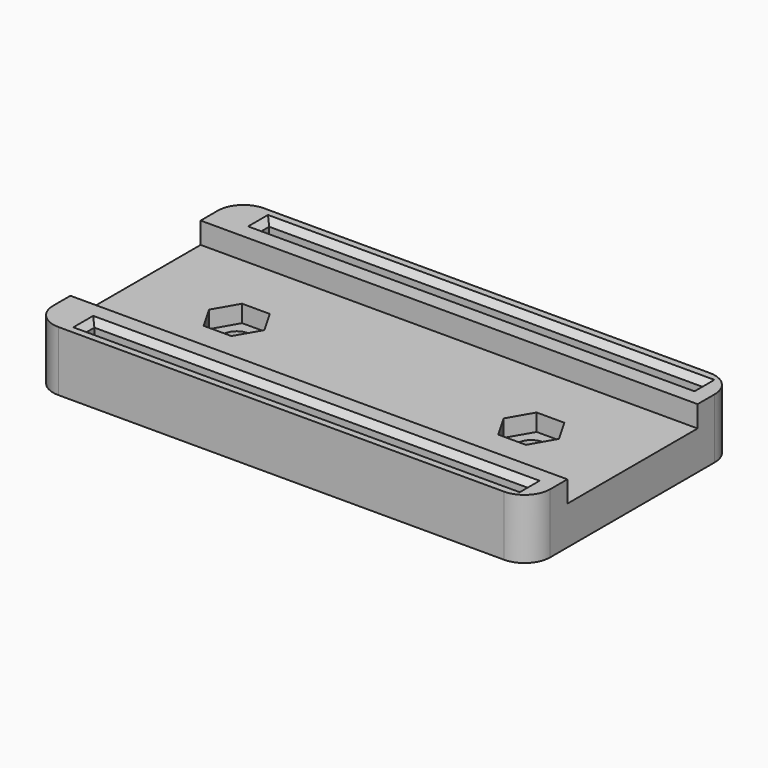
from build123d import *

# Parameters (mm, degrees)
SKETCH_W        = 58
SKETCH_H        = 30
SKETCH_R        = 1.6
SKETCH_W_2      = 50.7
SKETCH_H_2      = 1.5
PAD_DEPTH       = 7
SKETCH001_W     = 19
SKETCH001_H     = 2.5
POCKET_DEPTH    = 58
POCKET001_DEPTH = 2
FILLET_R        = 3
CHAMFER_SIZE    = 0.7


with BuildPart() as part:
    # Sketch → Pad (new body)
    with BuildSketch(Plane.XY):
        Rectangle(SKETCH_W, SKETCH_H)
        with Locations((-17.186, 0)):
            Circle(SKETCH_R, mode=Mode.SUBTRACT)
        with Locations((17.186, 0)):
            Circle(SKETCH_R, mode=Mode.SUBTRACT)
        with Locations((1.15, 12.75)):
            Rectangle(SKETCH_W_2, SKETCH_H_2, mode=Mode.SUBTRACT)
        with Locations((1.15, -12.75)):
            Rectangle(SKETCH_W_2, SKETCH_H_2, mode=Mode.SUBTRACT)
    extrude(amount=PAD_DEPTH)

    # Sketch001 (on Face4 of Pad) → Pocket (cut)
    with BuildSketch(Plane(origin=(-29, 0, 0), x_dir=(0, -1, 0), z_dir=(-1, 0, 0))):
        with Locations((0, 5.75)):
            Rectangle(SKETCH001_W, SKETCH001_H)
    extrude(amount=-POCKET_DEPTH, mode=Mode.SUBTRACT)

    # Sketch002 (on Face7 of Pocket) → Pocket001 (cut)
    with BuildSketch(Plane.XY.offset(4.5)):
        Polygon((-15.569419, -2.8), (-13.952838, 0), (-15.569419, 2.8), (-18.802581, 2.8), (-20.419162, 0), (-18.802581, -2.8), align=None)
        Polygon((13.952838, 0), (15.569419, -2.8), (18.802581, -2.8), (20.419162, 0), (18.802581, 2.8), (15.569419, 2.8), align=None)
    extrude(amount=-POCKET001_DEPTH, mode=Mode.SUBTRACT)

    # Fillet
    fillet_edges = [part.edges().sort_by_distance(p)[0] for p in [
        (-29, -15, 3.5),
        (-29, 15, 3.5),
        (29, -15, 3.5),
        (29, 15, 3.5),
    ]]
    fillet(fillet_edges, radius=FILLET_R)

    # Chamfer
    chamfer_edges = [part.edges().sort_by_distance(p)[0] for p in [
        (1.15, -12, 7),
        (1.15, -13.5, 7),
        (26.5, -12.75, 7),
        (-24.2, -12.75, 7),
        (1.15, 13.5, 7),
        (1.15, 12, 7),
        (-24.2, 12.75, 7),
        (26.5, 12.75, 7),
    ]]
    chamfer(chamfer_edges, length=CHAMFER_SIZE)


solid = part.part
